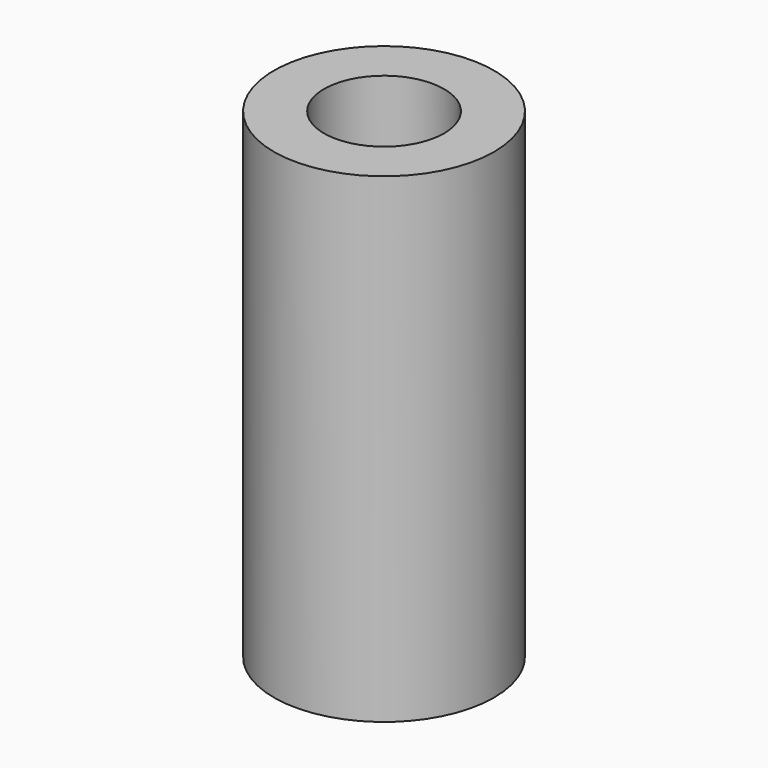
from build123d import *

# Parameters (mm, degrees)
F0_R     = 34.925
F1_DEPTH = 152.4
F2_R     = 19.05
F3_DEPTH = 44.45
F4_R     = 19.05
F5_DEPTH = 44.45
F6_R     = 3.175
F7_DEPTH = 152.4


with BuildPart() as f1:
    # F0 (on Top) → F1 (new body)
    with BuildSketch(Plane.XY):
        Circle(F0_R)
    extrude(amount=F1_DEPTH)

    # F2 (on face) → F3 (cut)
    with BuildSketch(Plane.XY.offset(152.4)):
        Circle(F2_R)
    extrude(amount=-F3_DEPTH, mode=Mode.SUBTRACT)

    # F4 (on face) → F5 (cut)
    with BuildSketch(Plane(origin=(0, 0, 0), x_dir=(1, 0, 0), z_dir=(0, 0, -1))):
        Circle(F4_R)
    extrude(amount=-F5_DEPTH, mode=Mode.SUBTRACT)

    # F6 (on face) → F7 (cut)
    with BuildSketch(Plane.XY.offset(107.95)):
        Circle(F6_R)
    extrude(amount=-F7_DEPTH, mode=Mode.SUBTRACT)


solid = f1.part
